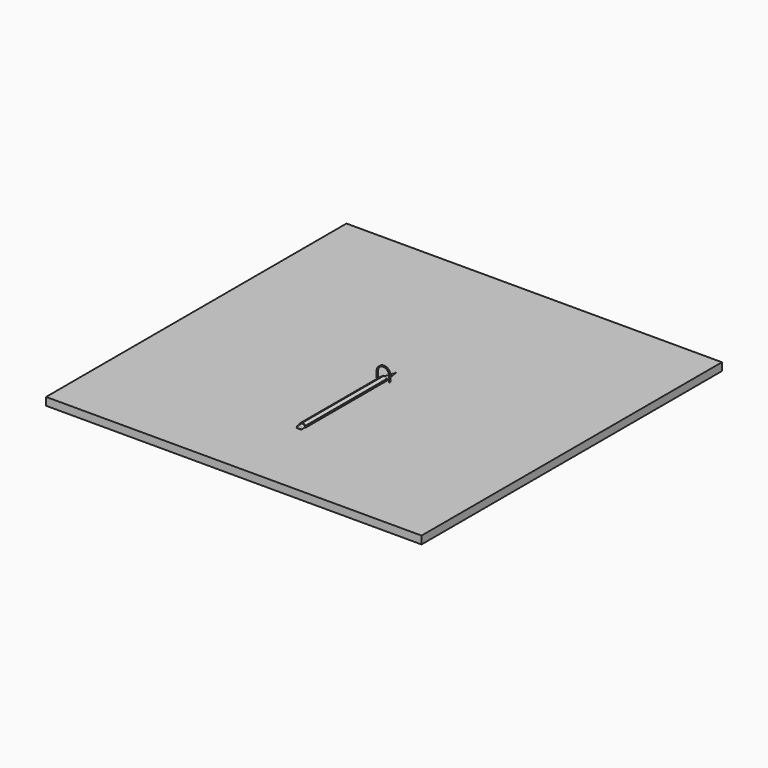
from build123d import *

# Parameters (mm, degrees)
F1_DEPTH = 1.5
F2_W     = 480
F2_H     = 480
F3_DEPTH = 10
F5_DEPTH = 130
F6_R     = 3.125
F7_DEPTH = 6.25
F8_R     = 1


with BuildPart() as f1:
    # F0 (on Front) → F1 (new body)
    with BuildSketch(Plane.XZ):
        with BuildLine():
            ThreePointArc((8.3, 7.5), (0, 15.8), (-8.3, 7.5))
            Line((-8.3, 7.5), (-8.3, -0.8))
            Line((-8.3, -0.8), (8.3, -0.8))
            Line((8.3, -0.8), (8.3, 7.5))
        make_face()
        with BuildLine():
            Line((7.5, 0), (-7.5, 0))
            Line((-7.5, 0), (-7.5, 7.5))
            ThreePointArc((-7.5, 7.5), (0, 15), (7.5, 7.5))
            Line((7.5, 7.5), (7.5, 0))
        make_face(mode=Mode.SUBTRACT)
    extrude(amount=F1_DEPTH)


with BuildPart() as f3:
    # F2 (on Top) → F3 (new body)
    with BuildSketch(Plane.XY):
        Rectangle(F2_W, F2_H)
    extrude(amount=-F3_DEPTH)


with BuildPart() as f5:
    # F4 (on Front) → F5 (new body)
    with BuildSketch(Plane.XZ):
        Polygon((3.85, -2.2227985364), (3.85, 2.2227985364), (0, 4.4455970728), (-3.85, 2.2227985364), (-3.85, -2.2227985364), (0, -4.4455970728), align=None)
    extrude(amount=F5_DEPTH)

    # F6 (on face) → F7 (join)
    with BuildSketch(Plane.XZ.offset(130)):
        Circle(F6_R)
    extrude(amount=F7_DEPTH)

    # F8
    f8_edges = [f5.edges().sort_by_distance(p)[0] for p in [
        (-3.125, -136.25, 0),
    ]]
    fillet(f8_edges, radius=F8_R)

    # F9 (on Top) → F10 (revolve)
    with BuildSketch(Plane.XY):
        Polygon((-3.125, 0), (0, 0), (0, 20), align=None)
    revolve(axis=Axis((0, 10, 0), (0, -1, 0)))


solid = Compound([f1.part, f3.part, f5.part])
